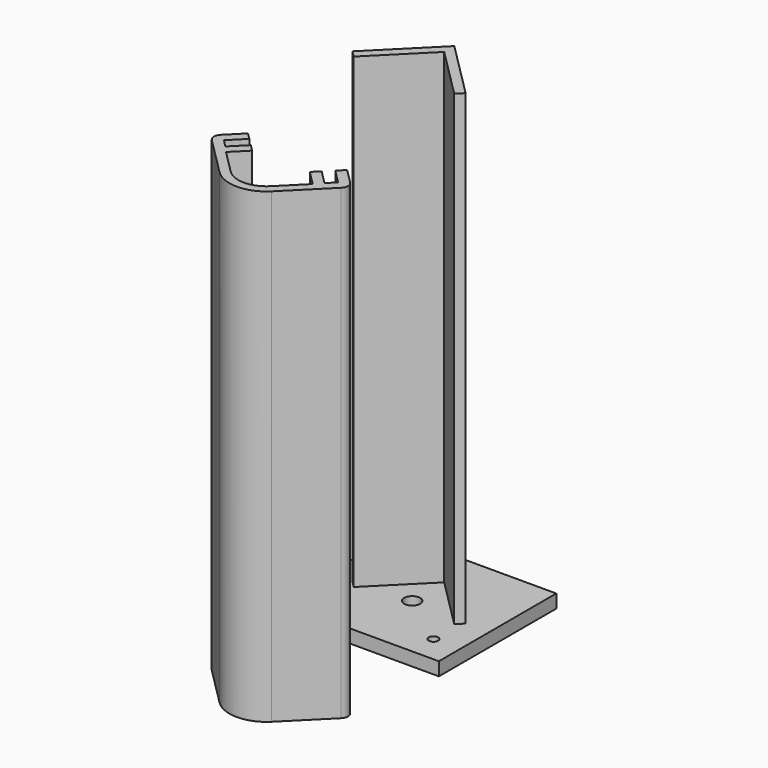
from build123d import *

# Parameters (mm, degrees)
F0_W     = 60
F0_H     = 55
F0_R     = 1.75
F0_R_2   = 3
F1_DEPTH = 5
F2_DEPTH = 180
F3_DEPTH = 175
F4_R     = 3


with BuildPart() as f1:
    # F0 (on Top) → F1 (new body)
    with BuildSketch(Plane.XY):
        with Locations((0, 16.187868)):
            Rectangle(F0_W, F0_H)
        with Locations((-20, -1.312132)):
            Circle(F0_R, mode=Mode.SUBTRACT)
        with Locations((0, 13.687868)):
            Circle(F0_R_2, mode=Mode.SUBTRACT)
        with Locations((20, -1.312132)):
            Circle(F0_R, mode=Mode.SUBTRACT)
        Polygon((-18.840602, 9.847266), (-21.213203, 12.219867), (0, 33.43307), (21.213203, 12.219867), (18.840602, 9.847266), (0, 28.687868), align=None, mode=Mode.SUBTRACT)
    extrude(amount=F1_DEPTH)

    # F0 (on Top) → F2 (join)
    with BuildSketch(Plane.XY):
        Polygon((0, 33.43307), (-21.213203, 12.219867), (-18.840602, 9.847266), (0, 28.687868), (18.840602, 9.847266), (21.213203, 12.219867), align=None)
    extrude(amount=F2_DEPTH)


with BuildPart() as f3:
    # F0 (on Top) → F3 (new body)
    with BuildSketch(Plane.XY):
        with BuildLine():
            Line((-16.096699, -42.457327), (-18.571573, -39.982453))
            Line((-18.571573, -39.982453), (-26.349747, -47.760628))
            Line((-26.349747, -47.760628), (-9.779004, -64.331371))
            ThreePointArc((-9.779004, -64.331371), (0, -68.381967), (9.779004, -64.331371))
            Line((9.779004, -64.331371), (26.349747, -47.760628))
            Line((26.349747, -47.760628), (18.571573, -39.982453))
            Line((18.571573, -39.982453), (16.096699, -42.457327))
            Line((16.096699, -42.457327), (21.4, -47.760628))
            Line((21.4, -47.760628), (18.571573, -50.589055))
            Line((18.571573, -50.589055), (13.268272, -45.285754))
            Line((13.268272, -45.285754), (10.793398, -47.760628))
            Line((10.793398, -47.760628), (16.251474, -53.218704))
            Line((16.251474, -53.218704), (7.458906, -62.011273))
            ThreePointArc((7.458906, -62.011273), (0, -65.100852), (-7.458906, -62.011273))
            Line((-7.458906, -62.011273), (-16.251474, -53.218704))
            Line((-16.251474, -53.218704), (-10.793398, -47.760628))
            Line((-10.793398, -47.760628), (-13.268272, -45.285754))
            Line((-13.268272, -45.285754), (-18.571573, -50.589055))
            Line((-18.571573, -50.589055), (-21.4, -47.760628))
            Line((-21.4, -47.760628), (-16.096699, -42.457327))
        make_face()
    extrude(amount=F3_DEPTH)

    # F4
    f4_edges = [f3.edges().sort_by_distance(p)[0] for p in [
        (26.349747, -47.760628, 87.5),
        (-26.349747, -47.760628, 87.5),
    ]]
    fillet(f4_edges, radius=F4_R)


solid = Compound([f1.part, f3.part])
